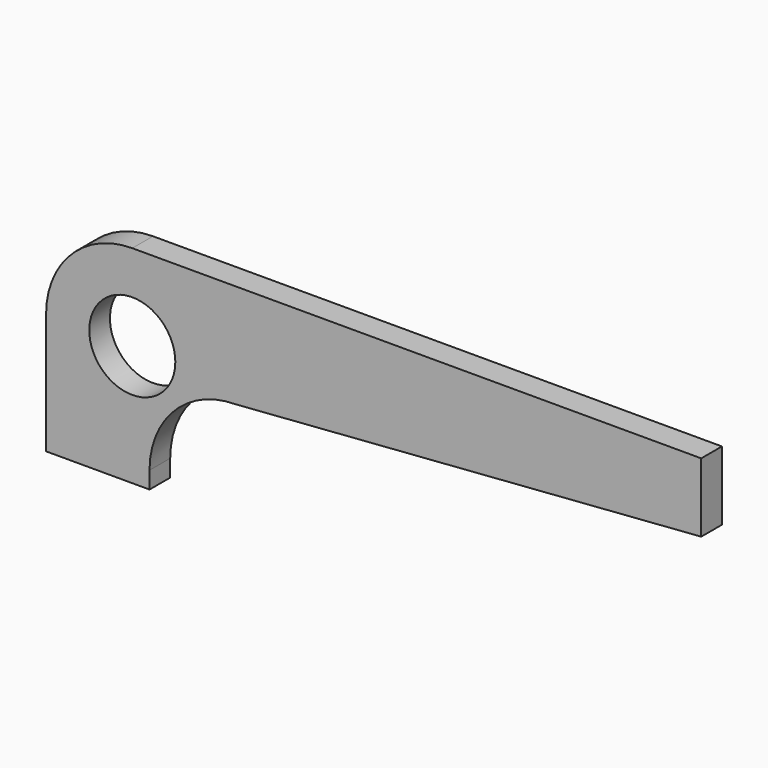
from build123d import *

# Parameters (mm, degrees)
F0_R     = 3.9624
F1_DEPTH = 2.38125


with BuildPart() as f1:
    # F0 (on Front) → F1 (new body)
    with BuildSketch(Plane.XZ):
        with BuildLine():
            Line((0, 5.55625), (0, 0))
            Line((0, 0), (9.525, 0))
            Line((9.525, 0), (9.525, 1.56595))
            ThreePointArc((9.525, 1.56595), (11.84612, 7.16963), (17.4498, 9.49075))
            Line((17.4498, 9.49075), (60.325, 12.7))
            Line((60.325, 12.7), (60.325, 19.05))
            Line((60.325, 19.05), (7.9375, 19.05))
            ThreePointArc((7.9375, 19.05), (2.32484, 16.72516), (0, 11.1125))
            Line((0, 11.1125), (0, 5.55625))
        make_face()
        with Locations((7.9375, 11.1125)):
            Circle(F0_R, mode=Mode.SUBTRACT)
    extrude(amount=F1_DEPTH)


solid = f1.part
